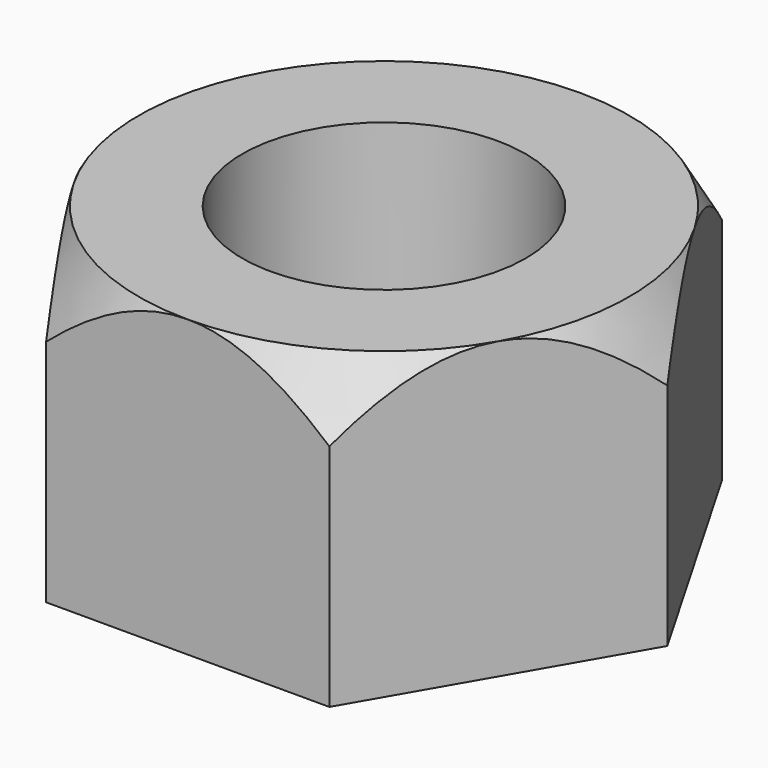
from build123d import *

# Parameters (mm, degrees)
F0_R     = 12
F1_DEPTH = 25


with BuildPart() as f1:
    # F0 (on Top) → F1 (new body)
    with BuildSketch(Plane.XY):
        Polygon((24, 0), (12, 20.78461), (-12, 20.78461), (-24, 0), (-12, -20.78461), (12, -20.78461), align=None)
        Circle(F0_R, mode=Mode.SUBTRACT)
    extrude(amount=F1_DEPTH)

    # F3 (on Front) → F4 (revolve, cut)
    with BuildSketch(Plane.XZ):
        Polygon((24, 25), (20.78461, 25), (24, 19.430781), align=None)
    revolve(axis=Axis((0, 0, 14.01754), (0, 0, 1)), mode=Mode.SUBTRACT)


solid = f1.part
